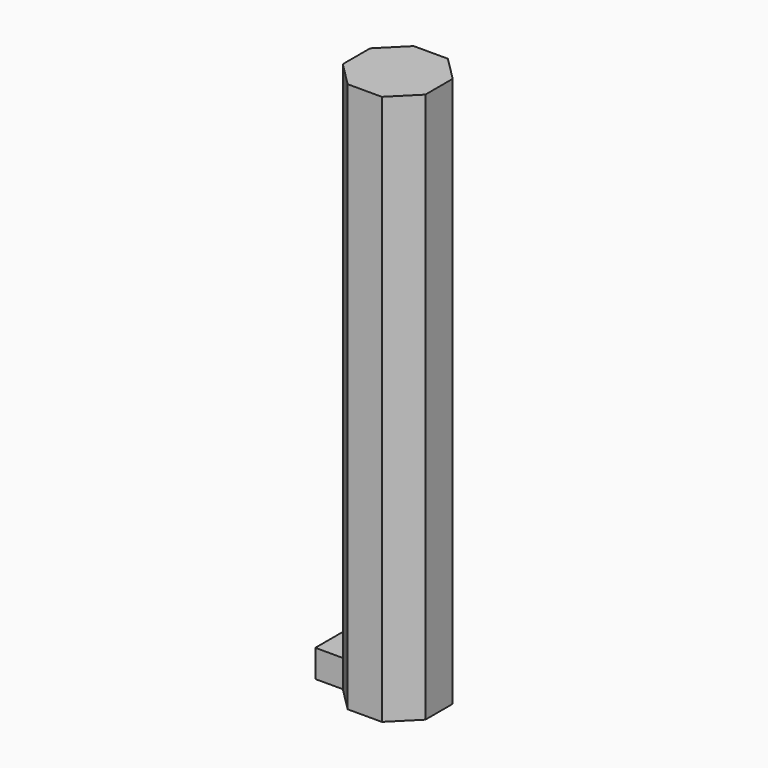
from build123d import *

# Parameters (mm, degrees)
F1_DEPTH = 60
F2_W     = 3.727922
F2_H     = 3
F3_DEPTH = 3


with BuildPart() as f1:
    # F0 (on Top) → F1 (new body)
    with BuildSketch(Plane.XY):
        Polygon((-59.501522, 25.738621), (-56.865483, 28.37466), (-56.865483, 32.102582), (-59.501522, 34.738621), (-63.229444, 34.738621), (-65.865483, 32.102582), (-65.865483, 28.37466), (-63.229444, 25.738621), align=None)
    extrude(amount=F1_DEPTH)

    # F2 (on face) → F3 (join)
    with BuildSketch(Plane(origin=(-65.865483, 0, 0), x_dir=(0, -1, 0), z_dir=(-1, 0, 0))):
        with Locations((-30.238621, 1.5)):
            Rectangle(F2_W, F2_H)
    extrude(amount=F3_DEPTH)


solid = f1.part
